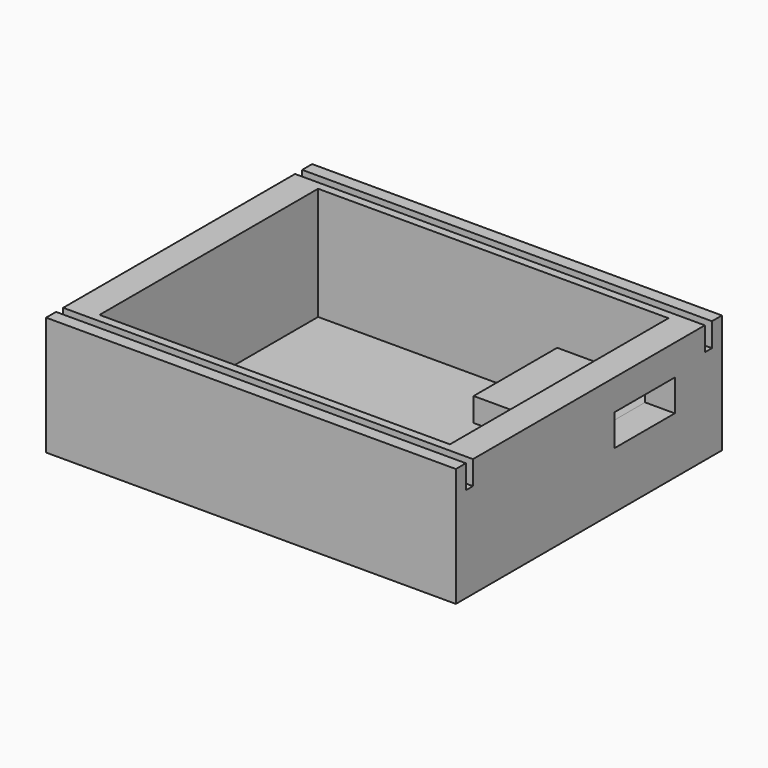
from build123d import *

# Parameters (mm, degrees)
F0_W     = 87.63
F0_H     = 71.12
F1_DEPTH = 25.4
F2_W     = 74.929997
F2_H     = 58.42
F3_DEPTH = 24.13
F4_W     = 16.083958
F4_H     = 6.761409
F5_DEPTH = 7.62
F6_W     = 87.63
F6_H     = 1.905
F7_DEPTH = 5.08
F9_DEPTH = 5.08


with BuildPart() as f1:
    # F0 (on Top) → F1 (new body)
    with BuildSketch(Plane.XY):
        with Locations((-1.058847, -6.879137)):
            Rectangle(F0_W, F0_H)
    extrude(amount=F1_DEPTH)

    # F2 (on face) → F3 (cut)
    with BuildSketch(Plane.XY.offset(25.4)):
        with Locations((-1.058847, -6.879137)):
            Rectangle(F2_W, F2_H)
    extrude(amount=-F3_DEPTH, mode=Mode.SUBTRACT)

    # F4 (on face) → F5 (cut)
    with BuildSketch(Plane.YZ.offset(42.756153)):
        with Locations((8.041979, 15.468483)):
            Rectangle(F4_W, F4_H)
    extrude(amount=-F5_DEPTH, mode=Mode.SUBTRACT)

    # F6 (on face) → F7 (cut)
    with BuildSketch(Plane.XY.offset(25.4)):
        with Locations((-1.058847, 25.061363)):
            Rectangle(F6_W, F6_H)
        with Locations((-1.058847, -38.819637)):
            Rectangle(F6_W, F6_H)
    extrude(amount=-F7_DEPTH, mode=Mode.SUBTRACT)

    # F8 (on face) → F9 (join)
    with BuildSketch(Plane.XY.offset(12.087778)):
        Polygon((12.600807, 0), (36.406152, 0), (36.406152, 16.083958), (36.406152, 22.332337), (12.600807, 22.332337), align=None)
    extrude(amount=-F9_DEPTH)


solid = f1.part
